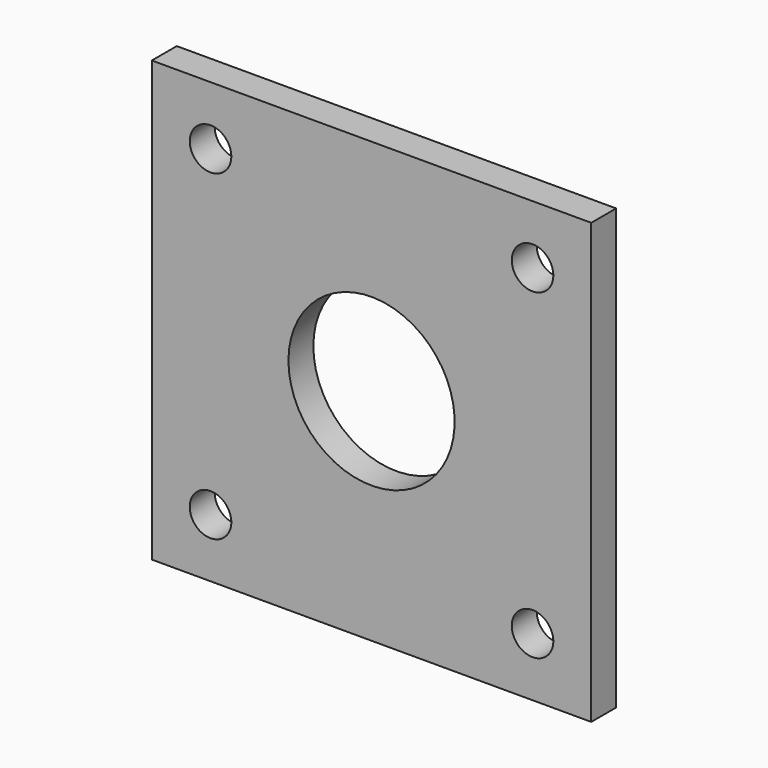
from build123d import *

# Parameters (mm, degrees)
F0_W     = 42.3
F0_H     = 42.3
F1_DEPTH = 3
F2_D     = 4
F3_D     = 16


with BuildPart() as f1:
    # F0 (on Front) → F1 (new body)
    with BuildSketch(Plane.XZ):
        Rectangle(F0_W, F0_H)
    extrude(amount=F1_DEPTH)

    # F2 (through all)
    with Locations(Plane(origin=(0, 0, 0), x_dir=(1, 0, 0), z_dir=(0, 1, 0))):
        with Locations((-15.5, 15.5), (15.5, 15.5), (15.5, -15.5), (-15.5, -15.5)):
            Hole(F2_D / 2)

    # F3 (through all)
    with Locations(Plane(origin=(0, 0, 0), x_dir=(1, 0, 0), z_dir=(0, 1, 0))):
        with Locations((0, 0)):
            Hole(F3_D / 2)


solid = f1.part
